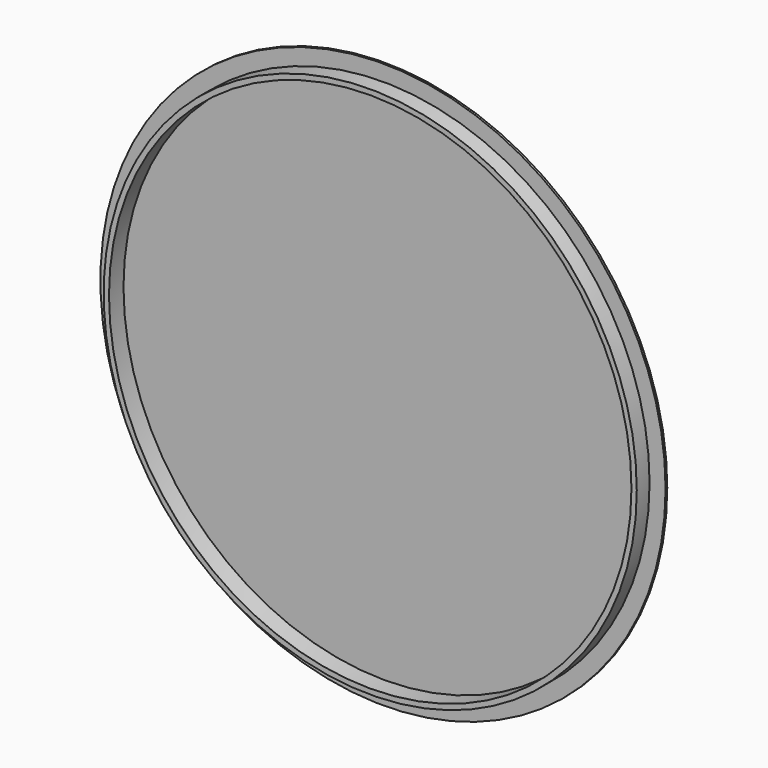
from build123d import *

# Parameters (mm, degrees)
F2_R     = 245.000005
F3_DEPTH = 17


with BuildPart() as f1:
    # F0 (on Top) → F1 (revolve)
    with BuildSketch(Plane.XY):
        with BuildLine():
            Line((0, 42), (0, 0))
            Line((0, 0), (250, 0))
            Line((250, 0), (250, 15))
            Line((250, 15), (265, 15))
            Line((265, 15), (265, 17))
            ThreePointArc((265, 17), (133.590535, 35.736051), (1, 42))
            Line((1, 42), (0, 42))
        make_face()
    revolve(axis=Axis((0, 21, 0), (0, -1, 0)))

    # F2 (on face) → F3 (cut)
    with BuildSketch(Plane.XZ):
        Circle(F2_R)
    extrude(amount=-F3_DEPTH, mode=Mode.SUBTRACT)


solid = f1.part
